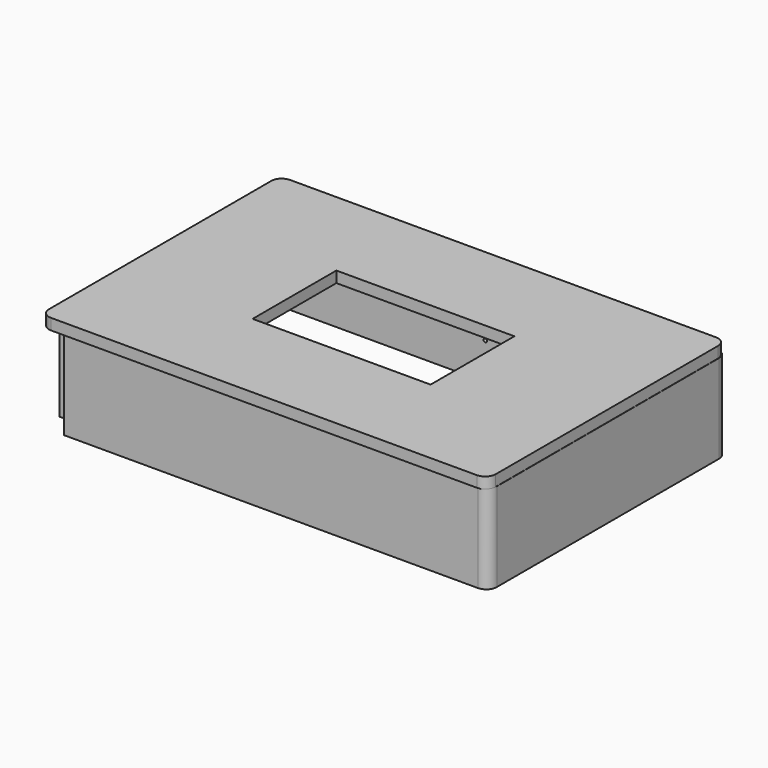
from build123d import *

# Parameters (mm, degrees)
F0_W     = 51
F0_H     = 30
F1_DEPTH = 3.175
F2_W     = 115.3
F2_H     = 72.9
F4_DEPTH = 25.4
F3_W     = 115.3
F3_H     = 72.9
F5_DEPTH = 25.4
F6_R     = 0.5
F7_DEPTH = 25


with BuildPart() as f1:
    # F0 (on Top) → F1 (new body)
    with BuildSketch(Plane.XY):
        with BuildLine():
            Line((61, 42.8), (-61, 42.8))
            ThreePointArc((-61, 42.8), (-63.1213203436, 41.9213203436), (-64, 39.8))
            Line((-64, 39.8), (-64, -39.8))
            ThreePointArc((-64, -39.8), (-63.1213203436, -41.9213203436), (-61, -42.8))
            Line((-61, -42.8), (61, -42.8))
            ThreePointArc((61, -42.8), (63.1213203436, -41.9213203436), (64, -39.8))
            Line((64, -39.8), (64, 39.8))
            ThreePointArc((64, 39.8), (63.1213203436, 41.9213203436), (61, 42.8))
        make_face()
        Rectangle(F0_W, F0_H, mode=Mode.SUBTRACT)
    extrude(amount=F1_DEPTH)

    # F2 (on Top) → F4 (join)
    with BuildSketch(Plane.XY):
        with BuildLine():
            Line((-63.9396576047, -36.1556038049), (-57.5896576047, -36.1556038049))
            Line((-57.5896576047, -36.1556038049), (-57.5896576047, -42.5056038049))
            Line((-57.5896576047, -42.5056038049), (61.0603423953, -42.5056038049))
            ThreePointArc((61.0603423953, -42.5056038049), (63.1816627389, -41.6269241484), (64.0603423953, -39.5056038049))
            Line((64.0603423953, -39.5056038049), (64.0603423953, -36.1556038049))
            Line((64.0603423953, -36.1556038049), (64.0603423953, 36.7443961951))
            Line((64.0603423953, 36.7443961951), (64.0603423953, 40.0943961951))
            ThreePointArc((64.0603423953, 40.0943961951), (63.1816627389, 42.2157165387), (61.0603423953, 43.0943961951))
            Line((61.0603423953, 43.0943961951), (-57.5896576047, 43.0943961951))
            Line((-57.5896576047, 43.0943961951), (-60.9396576047, 43.0943961951))
            ThreePointArc((-60.9396576047, 43.0943961951), (-63.0609779483, 42.2157165387), (-63.9396576047, 40.0943961951))
            Line((-63.9396576047, 40.0943961951), (-63.9396576047, -36.1556038049))
        make_face()
        with Locations((0.0603423953, 0.2943961951)):
            Rectangle(F2_W, F2_H, mode=Mode.SUBTRACT)
        with Locations((0.0603423953, 0.2943961951)):
            Rectangle(F2_W, F2_H)
    extrude(amount=-F4_DEPTH)

    # F3 (on Top) → F5 (cut)
    with BuildSketch(Plane.XY):
        Rectangle(F3_W, F3_H)
    extrude(amount=-F5_DEPTH, mode=Mode.SUBTRACT)

    # F6 (on face) → F7 (cut)
    with BuildSketch(Plane(origin=(0, 43.0943961951, 0), x_dir=(-1, 0, 0), z_dir=(0, 1, 0))):
        with Locations((0, -14.8937767372)):
            Circle(F6_R)
    extrude(amount=-F7_DEPTH, mode=Mode.SUBTRACT)


solid = f1.part
